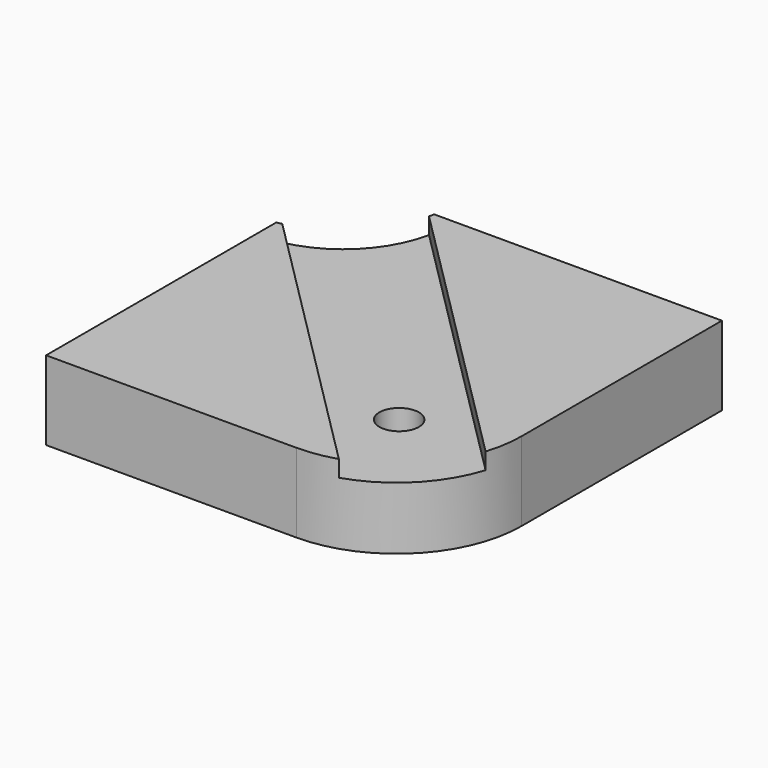
from build123d import *

# Parameters (mm, degrees)
PAD016_DEPTH            = 24
POCKET028_DEPTH         = 5
SKETCH046_R             = 32
SKETCH046_R_2           = 6
POCKET029_DEPTH         = 24
BODY014_PLACEMENT_ANGLE = 180


with BuildPart() as part:
    # Sketch044 → Pad016 (new body)
    with BuildSketch(Plane.XY):
        with BuildLine():
            Line((5, 5), (119, 5))
            Line((119, 5), (119, 81))
            ThreePointArc((119, 81), (107.870058, 107.870058), (81, 119))
            Line((81, 119), (5, 119))
            Line((5, 119), (5, 5))
        make_face()
    extrude(amount=PAD016_DEPTH)

    # Sketch045 (on Face6 of Pad016) → Pocket028 (cut)
    with BuildSketch(Plane(origin=(0, 0, 0), x_dir=(1, 0, 0), z_dir=(0, 0, -1))):
        Polygon((12.374369, 12.374369), (123.206096, -98.457359), (98.457359, -123.206096), (-12.374369, -12.374369), (0, 0), align=None)
    extrude(amount=-POCKET028_DEPTH, mode=Mode.SUBTRACT)

    # Sketch046 (on Face6 of Pocket028) → Pocket029 (cut)
    with BuildSketch(Plane.XY.offset(24)):
        Circle(SKETCH046_R)
        with Locations((85, 85)):
            Circle(SKETCH046_R_2)
    extrude(amount=-POCKET029_DEPTH, mode=Mode.SUBTRACT)


with BuildPart() as part_1:
    # Body014 placement: moved
    add(part.part.rotate(Axis((0, 0, 0), (1, 0, 0)), BODY014_PLACEMENT_ANGLE))


with BuildPart() as part_2:
    # Clone placement: moved
    add(part_1.part.moved(Location((5, 129, 0))))


solid = part_2.part
